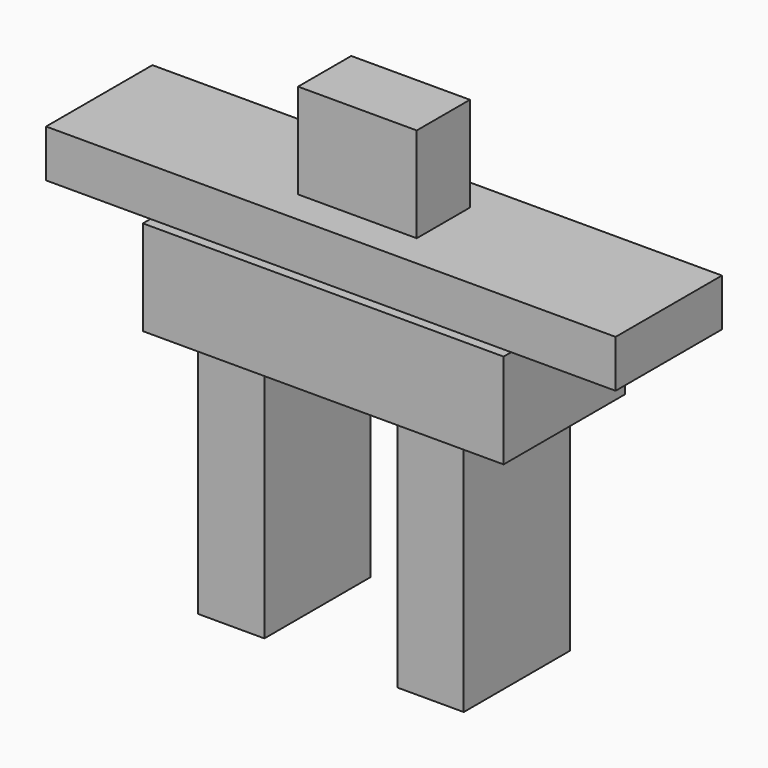
from build123d import *

# Parameters (mm, degrees)
F0_W     = 7
F0_H     = 14
F1_DEPTH = 25
F2_W     = 38
F2_H     = 16
F3_DEPTH = 10
F4_W     = 60
F4_H     = 14
F5_DEPTH = 5
F6_W     = 12.5
F6_H     = 7
F7_DEPTH = 10
F8_W     = 7
F8_H     = 14
F9_DEPTH = 25


with BuildPart() as f1:
    # F0 (on Top) → F1 (new body)
    with BuildSketch(Plane.XY):
        with Locations((-10.5, 0)):
            Rectangle(F0_W, F0_H)
    extrude(amount=F1_DEPTH)

    # F2 (on face) → F3 (join)
    with BuildSketch(Plane.XY.offset(25)):
        Rectangle(F2_W, F2_H)
    extrude(amount=F3_DEPTH)

    # F4 (on face) → F5 (join)
    with BuildSketch(Plane.XY.offset(35)):
        Rectangle(F4_W, F4_H)
    extrude(amount=F5_DEPTH)

    # F6 (on face) → F7 (join)
    with BuildSketch(Plane.XY.offset(40)):
        Rectangle(F6_W, F6_H)
    extrude(amount=F7_DEPTH)

    # F8 (on face) → F9 (join, through all)
    with BuildSketch(Plane(origin=(0, 0, 25), x_dir=(1, 0, 0), z_dir=(0, 0, -1))):
        with Locations((10.5, 0)):
            Rectangle(F8_W, F8_H)
    extrude(amount=F9_DEPTH)


solid = f1.part
